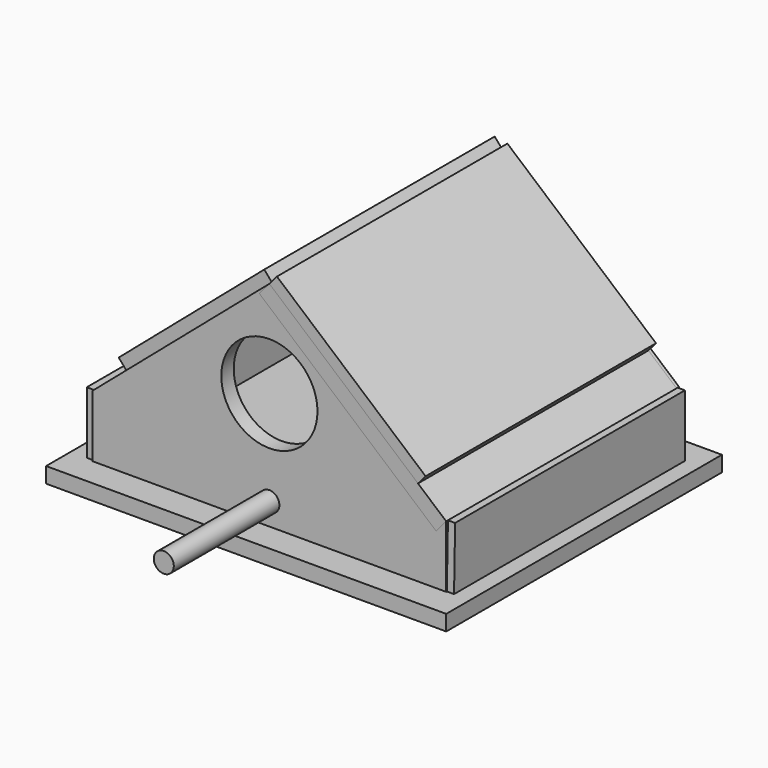
from build123d import *

# Parameters (mm, degrees)
F1_DEPTH  = 5.08
F4_DEPTH  = 5.08
F6_W      = 93.98
F6_H      = 25.4
F7_DEPTH  = 5.08
F10_DEPTH = 5.08
F13_DEPTH = 5.08
F14_W     = 76.2
F14_H     = 94.234
F15_DEPTH = 5.08
F16_W     = 76.2
F16_H     = 94.234
F17_DEPTH = 5.08
F18_R     = 15.738877225
F19_DEPTH = 59.944
F20_R     = 3.274453398
F21_DEPTH = 43.18
F22_W     = 64.0627496209
F22_H     = 94.234
F23_DEPTH = 3.81
F24_W     = 62.747863529
F24_H     = 94.234
F25_DEPTH = 3.81


with BuildPart() as f1:
    # F0 (on Top) → F1 (new body)
    with BuildSketch(Plane.XY):
        Polygon((-65.4627308249, -56.230802089), (0, -56.230802089), (65.4627308249, -56.230802089), (65.4627308249, 56.5105602145), (0, 56.5105602145), (-65.4627308249, 56.5105602145), align=None)
    extrude(amount=F1_DEPTH)


with BuildPart() as f4:
    # F3 (on offset) → F4 (new body)
    with BuildSketch(Plane.XZ.offset(41.656)):
        Polygon((-57.8427308249, 0), (57.8427308249, 0), (57.8427308249, 25.4), (0, 75.0050248535), (-57.8427308249, 25.4), align=None)
    extrude(amount=F4_DEPTH)

    # F18 (on face) → F19 (cut)
    with BuildSketch(Plane.XZ.offset(46.736)):
        with Locations((0, 43.3620624244)):
            Circle(F18_R)
    extrude(amount=-F19_DEPTH, mode=Mode.SUBTRACT)

    # F20 (on face) → F21 (join)
    with BuildSketch(Plane.XZ.offset(46.736)):
        with Locations((0, 12.3092317954)):
            Circle(F20_R)
    extrude(amount=F21_DEPTH)


with BuildPart() as f7:
    # F6 (on offset) → F7 (new body)
    with BuildSketch(Plane.YZ.offset(-60.198)):
        with Locations((0.8187752477, 12.7)):
            Rectangle(F6_W, F6_H)
    extrude(amount=F7_DEPTH)


with BuildPart() as f10:
    # F9 (on offset) → F10 (new body)
    with BuildSketch(Plane.YZ.offset(60.198)):
        Polygon((47.9602938963, 25.4), (-46.0197061037, 25.4), (-46.574158704, 0), (47.9602938963, 0), align=None)
    extrude(amount=-F10_DEPTH)


with BuildPart() as f13:
    # F12 (on offset) → F13 (new body)
    with BuildSketch(Plane.XZ.offset(-48.514)):
        Polygon((-57.8427308249, 0), (57.8427308249, 0), (57.8427308249, 25.4), (0, 75.0050248535), (-57.8427308249, 25.4), align=None)
    extrude(amount=F13_DEPTH)


with BuildPart() as f15:
    # F14 (on face) → F15 (new body)
    with BuildSketch(Plane(origin=(37.0642209813, 0, 43.2193263443), x_dir=(0.7590909557, 0, -0.6509845781), z_dir=(0.6509845781, 0, 0.7590909557))):
        with Locations((-10.7271144618, 0.381)):
            Rectangle(F14_W, F14_H)
    extrude(amount=-F15_DEPTH)


with BuildPart() as f17:
    # F16 (on face) → F17 (new body)
    with BuildSketch(Plane(origin=(-37.0642209813, 0, 43.2193263443), x_dir=(0.7590909557, 0, 0.6509845781), z_dir=(-0.6509845781, 0, 0.7590909557))):
        with Locations((10.7271144618, 1.397)):
            Rectangle(F16_W, F16_H)
    extrude(amount=-F17_DEPTH)


with BuildPart() as f23:
    # F22 (on face) → F23 (new body)
    with BuildSketch(Plane(origin=(37.0642209813, 0, 43.2193263443), x_dir=(0.7590909557, 0, -0.6509845781), z_dir=(0.6509845781, 0, 0.7590909557))):
        with Locations((-16.7957396514, 0.381)):
            Rectangle(F22_W, F22_H)
    extrude(amount=F23_DEPTH)


with BuildPart() as f25:
    # F24 (on face) → F25 (new body)
    with BuildSketch(Plane(origin=(-37.0642209813, 0, 43.2193263443), x_dir=(0.7590909557, 0, 0.6509845781), z_dir=(-0.6509845781, 0, 0.7590909557))):
        with Locations((17.4531826973, 1.397)):
            Rectangle(F24_W, F24_H)
    extrude(amount=F25_DEPTH)


solid = Compound([f1.part, f4.part, f7.part, f10.part, f13.part, f15.part, f17.part, f23.part, f25.part])
